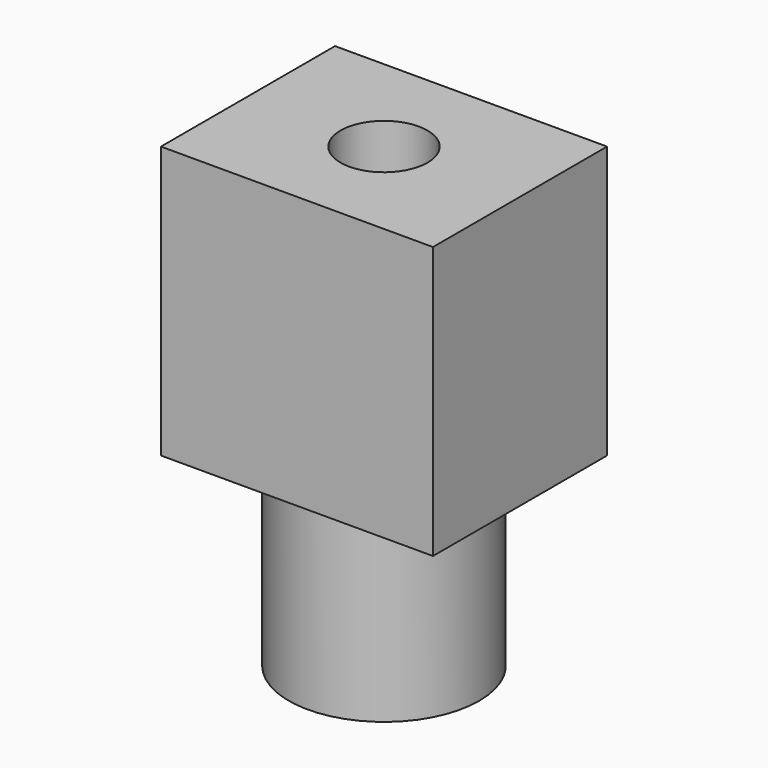
from build123d import *

# Parameters (mm, degrees)
F0_W     = 50
F0_H     = 40
F1_DEPTH = 50
F2_R     = 17.5
F3_DEPTH = 34
F4_R     = 8
F5_DEPTH = 84.001


with BuildPart() as f1:
    # F0 (on Top) → F1 (new body)
    with BuildSketch(Plane.XY):
        Rectangle(F0_W, F0_H)
    extrude(amount=F1_DEPTH)

    # F2 (on face) → F3 (join)
    with BuildSketch(Plane(origin=(0, 0, 0), x_dir=(1, 0, 0), z_dir=(0, 0, -1))):
        Circle(F2_R)
    extrude(amount=F3_DEPTH)

    # F4 (on face) → F5 (cut, through all)
    with BuildSketch(Plane.XY.offset(50)):
        Circle(F4_R)
    extrude(amount=-F5_DEPTH, mode=Mode.SUBTRACT)


solid = f1.part
